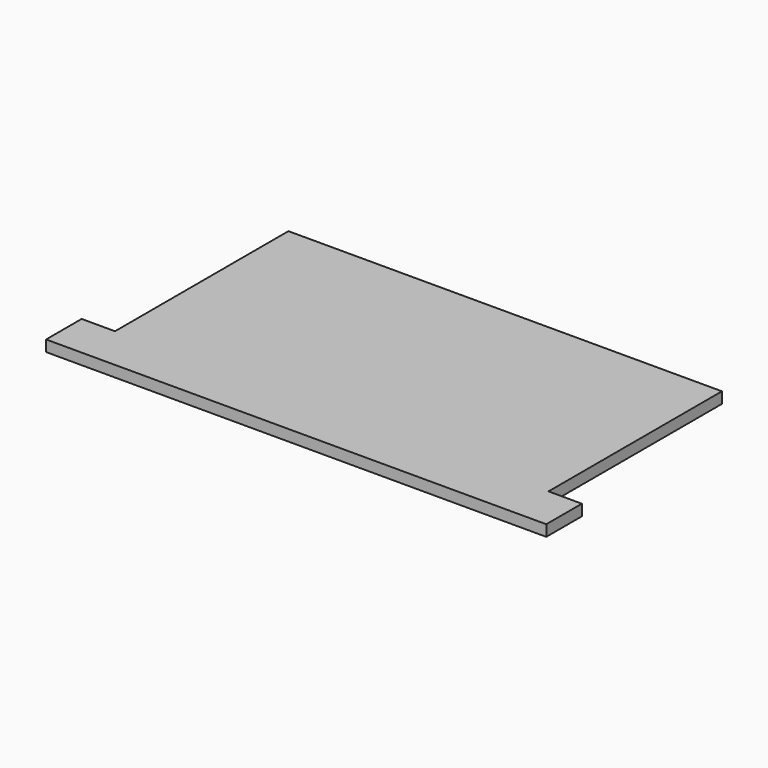
from build123d import *

# Parameters (mm, degrees)
PAD_DEPTH = 2


with BuildPart() as part:
    # Sketch (on Face1 of CopyPad007) → Pad (new body)
    with BuildSketch(Plane.XY.offset(82)):
        Polygon((15, 4), (15, 12), (21, 12), (21, 51), (99, 51), (99, 12), (105, 12), (105, 4), align=None)
    extrude(amount=PAD_DEPTH)


with BuildPart() as part_1:
    # Body001 placement: moved
    add(part.part.moved(Location((7.386589, 4.959148, 2.147461))))


solid = part_1.part
